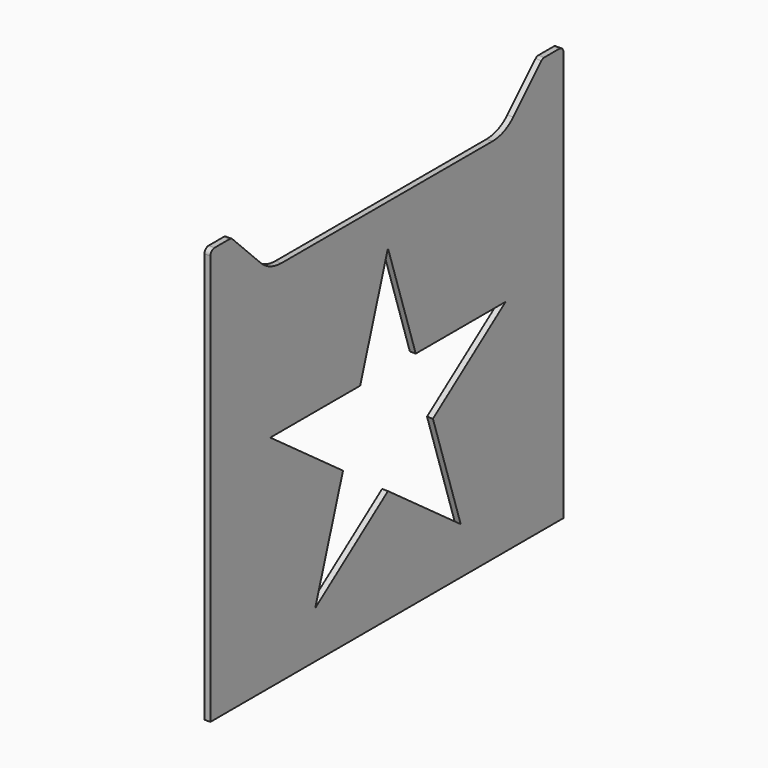
from build123d import *

# Parameters (mm, degrees)
F1_DEPTH = 1.016


with BuildPart() as f1:
    # F0 (on Right) → F1 (new body)
    with BuildSketch(Plane.YZ):
        with BuildLine():
            Line((0, 70.813183), (0, 0))
            Line((0, 0), (76.2, 0))
            Line((76.2, 0), (76.2, 70.813183))
            ThreePointArc((76.2, 70.813183), (75.939299, 71.44257), (75.309913, 71.70327))
            Line((75.309913, 71.70327), (72.071956, 71.70327))
            ThreePointArc((72.071956, 71.70327), (71.731335, 71.635516), (71.44257, 71.44257))
            Line((71.44257, 71.44257), (65.359872, 65.359872))
            ThreePointArc((65.359872, 65.359872), (63.299784, 63.983365), (60.869744, 63.5))
            Line((60.869744, 63.5), (15.330256, 63.5))
            ThreePointArc((15.330256, 63.5), (12.900216, 63.983365), (10.840128, 65.359872))
            Line((10.840128, 65.359872), (4.75743, 71.44257))
            ThreePointArc((4.75743, 71.44257), (4.468665, 71.635516), (4.128044, 71.70327))
            Line((4.128044, 71.70327), (0.890087, 71.70327))
            ThreePointArc((0.890087, 71.70327), (0.260701, 71.44257), (0, 70.813183))
        make_face()
        Polygon((28.616458, 26.554996), (12.918394, 37.960306), (32.322268, 37.960306), (38.318394, 56.414487), (44.314521, 37.960306), (63.718394, 37.960306), (48.020331, 26.554996), (54.016458, 8.100816), (38.318394, 19.506126), (22.620331, 8.100816), align=None, mode=Mode.SUBTRACT)
    extrude(amount=F1_DEPTH)


solid = f1.part
